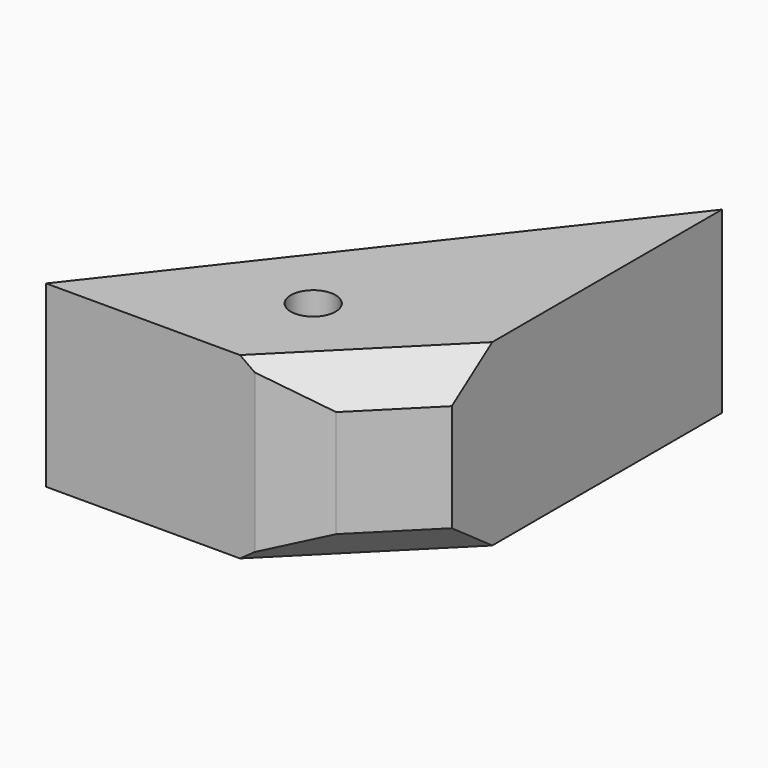
from build123d import *

# Parameters (mm, degrees)
F1_DEPTH = 25.4
F2_SIZE  = 12.7
F3_SIZE  = 5.08
F4_SIZE  = 5.08
F5_SIZE  = 5.08
F7_D     = 6.35


with BuildPart() as f1:
    # F0 (on Top) → F1 (new body)
    with BuildSketch(Plane.XY):
        Polygon((47.389537096, 60.6057569385), (0, 0), (47.389537096, 0), align=None)
    extrude(amount=F1_DEPTH)

    # F2
    f2_edges = [f1.edges().sort_by_distance(p)[0] for p in [
        (47.389537, 0, 12.7),
    ]]
    chamfer(f2_edges, length=F2_SIZE)

    # F3
    f3_edges = [f1.edges().sort_by_distance(p)[0] for p in [
        (41.039537, 6.35, 25.4),
    ]]
    chamfer(f3_edges, length=F3_SIZE)

    # F4
    f4_edges = [f1.edges().sort_by_distance(p)[0] for p in [
        (41.039537, 6.35, 0),
    ]]
    chamfer(f4_edges, length=F4_SIZE)

    # F5
    f5_edges = [f1.edges().sort_by_distance(p)[0] for p in [
        (34.689537, 0, 12.7),
    ]]
    chamfer(f5_edges, length=F5_SIZE)

    # F7 (through all)
    with Locations(Plane.XY.offset(25.4)):
        with Locations((26.0983891785, 14.7461835295)):
            Hole(F7_D / 2)


solid = f1.part
